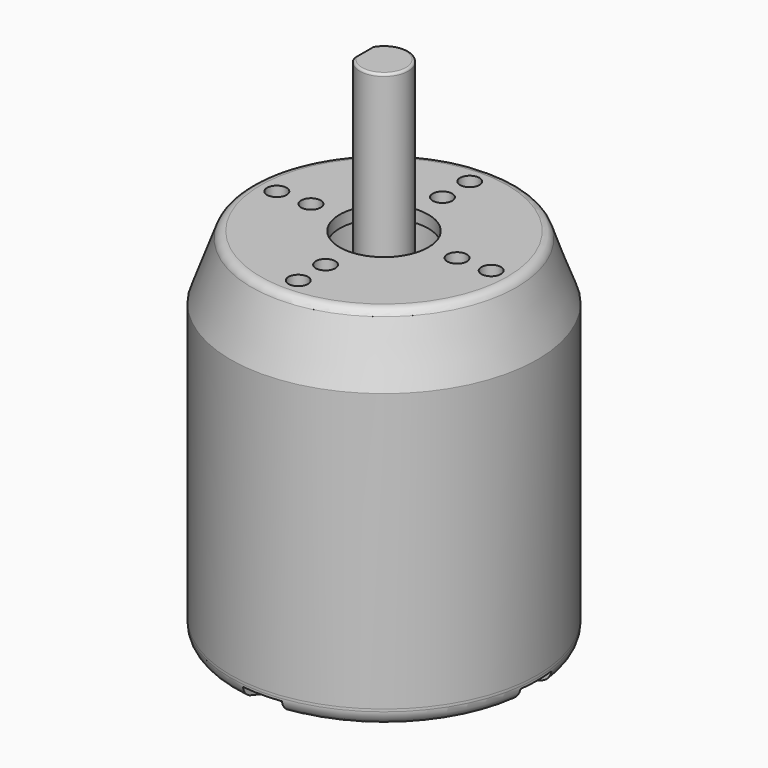
from build123d import *

# Parameters (mm, degrees)
SKETCH_R           = 31.5
SKETCH_R_2         = 30
PAD_DEPTH          = 55
SKETCH009_R        = 2
POCKET001_DEPTH    = 20
SKETCH010_R        = 2
POCKET002_DEPTH    = 25
POCKET003_DEPTH    = 248.483776
POLARPATTERN_COUNT = 4
SKETCH008_W        = 10
SKETCH008_H        = 10
POCKET_DEPTH       = 28.001


with BuildPart() as body:
    # Sketch005 → Revolution (revolve)
    with BuildSketch(Plane.XZ):
        with BuildLine():
            Line((9.1, 0), (25.367972, 0))
            ThreePointArc((27.247357, -1.31596), (26.515125, -0.361696), (25.367972, 0))
            Line((27.247357, -1.31596), (31.5, -13))
            Line((31.5, -13), (31.5, -15))
            Line((31.5, -15), (11.1, -15))
            Line((11.1, -2.5), (11.1, -15))
            Line((9.1, -2.5), (11.1, -2.5))
            Line((9.1, 0), (9.1, -2.5))
        make_face()
    revolve(axis=Axis((0, 0, 0), (0, 0, 1)))

    # Sketch → Pad (new body)
    with BuildSketch(Plane.XY.offset(-15)):
        Circle(SKETCH_R)
        Circle(SKETCH_R_2, mode=Mode.SUBTRACT)
    extrude(amount=-PAD_DEPTH)

    # Sketch006 → Revolution002 (revolve)
    with BuildSketch(Plane.XZ):
        with BuildLine():
            Line((5.1, -80), (13.7, -80))
            ThreePointArc((13.7, -80), (13.912132, -79.912132), (14, -79.7))
            Line((14, -79.7), (14, -78.5))
            Line((14, -78.5), (14.2, -78.5))
            Line((14.2, -78.5), (29.460589, -73.342053))
            ThreePointArc((29.460589, -73.342053), (30.937393, -72.249033), (31.5, -70.5))
            Line((31.5, -70.5), (31.5, -70))
            Line((31.5, -70), (30, -70))
            Line((30, -70), (30, -70.5))
            ThreePointArc((28.980295, -71.921027), (29.718696, -71.374516), (30, -70.5))
            Line((10.994704, -78), (28.980295, -71.921027))
            Line((5.1, -78), (10.994704, -78))
            Line((5.1, -78), (5.1, -80))
        make_face()
    revolve(axis=Axis((0, 0, 0), (0, 0, 1)))

    # Sketch009 → Pocket001 (cut)
    with BuildSketch(Plane.XY):
        with Locations((22, 0)):
            Circle(SKETCH009_R)
        with Locations((0, -22)):
            Circle(SKETCH009_R)
        with Locations((-22, 0)):
            Circle(SKETCH009_R)
        with Locations((-15, 0)):
            Circle(SKETCH009_R)
        with Locations((0, 15)):
            Circle(SKETCH009_R)
        with Locations((0, 22)):
            Circle(SKETCH009_R)
        with Locations((0, -15)):
            Circle(SKETCH009_R)
        with Locations((15, 0)):
            Circle(SKETCH009_R)
    extrude(amount=-POCKET001_DEPTH, mode=Mode.SUBTRACT)

    # Sketch010 → Pocket002 (cut)
    with BuildSketch(Plane.XY.offset(-80)):
        with Locations((10, 0)):
            Circle(SKETCH010_R)
        with Locations((0, -10)):
            Circle(SKETCH010_R)
        with Locations((-10, 0)):
            Circle(SKETCH010_R)
        with Locations((0, 10)):
            Circle(SKETCH010_R)
    extrude(amount=POCKET002_DEPTH, mode=Mode.SUBTRACT)

    # Sketch011 → Pocket003 (cut, through all)
    with BuildSketch(Plane.XY.offset(-71)):
        with BuildLine():
            ThreePointArc((18.999977, 4), (15, -1.1e-05), (19, -4))
            Line((19, -4), (31.5, -4))
            Line((31.5, -4), (31.5, 4))
            Line((31.5, 4), (18.999977, 4))
        make_face()
    pocket003 = extrude(amount=-POCKET003_DEPTH, mode=Mode.SUBTRACT)

    # PolarPattern: Pocket003 ×4 about axis
    polarpattern_axis = Axis((0, 0, -71), (0, 0, 1))
    for i in range(1, POLARPATTERN_COUNT):
        add(pocket003.rotate(polarpattern_axis, i * 360 / POLARPATTERN_COUNT), mode=Mode.SUBTRACT)


with BuildPart() as axis:
    # Sketch007 → Revolution003 (revolve)
    with BuildSketch(Plane.XZ):
        with BuildLine():
            Line((0, -80), (0, 31))
            Line((0, 31), (4.5, 31))
            ThreePointArc((5, 30.5), (4.853553, 30.853553), (4.5, 31))
            Line((5, 30.5), (5, -79.5))
            ThreePointArc((4.5, -80), (4.853553, -79.853553), (5, -79.5))
            Line((4.5, -80), (0, -80))
        make_face()
    revolve(axis=Axis((0, 0, 0), (0, 0, 1)))

    # Sketch008 → Pocket (cut, through all)
    with BuildSketch(Plane.XY.offset(3)):
        with Locations((-9, 0)):
            Rectangle(SKETCH008_W, SKETCH008_H)
    extrude(amount=POCKET_DEPTH, mode=Mode.SUBTRACT)


solid = Compound([body.part, axis.part])
